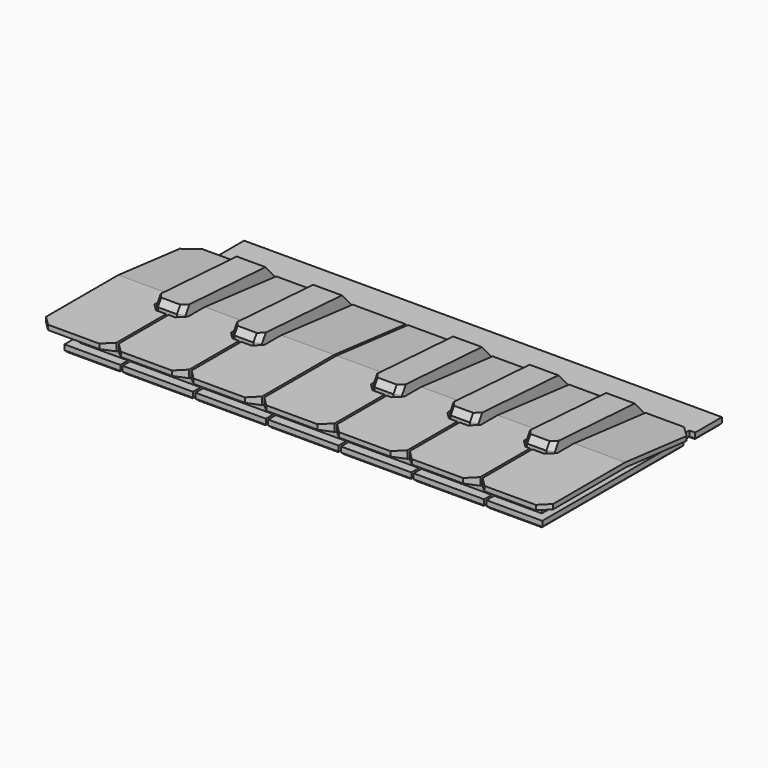
from build123d import *

# Parameters (mm, degrees)
PAD_DEPTH            = 6
POCKET_DEPTH         = 0.001
POCKET_DEPTH_BACK    = 6.001
LINEARPATTERN_COUNT  = 8
LINEARPATTERN_PITCH  = 15.228571
SKETCH002_R          = 60
POCKET001_DEPTH      = 108.051
POCKET001_DEPTH_BACK = 0.001
SKETCH003_W          = 7
SKETCH003_H          = 25
POCKET002_DEPTH      = 10.001
SKETCH004_W          = 6
SKETCH004_H          = 30.5
PAD001_DEPTH         = 8
POCKET003_DEPTH      = 108.051
POCKET003_DEPTH_BACK = 0.001
SKETCH006_W          = 10
SKETCH006_H          = 1.5
POCKET004_DEPTH      = 235.098116
POCKET004_DEPTH_BACK = 285.098116
POCKET005_DEPTH      = 0.001
POCKET005_DEPTH_BACK = 7.776184
POCKET006_DEPTH      = 5
CHAMFER_SIZE         = 2
CHAMFER001_SIZE      = 1
CHAMFER002_SIZE      = 1.5
SKETCH009_R          = 1.5
POCKET007_DEPTH      = 3.2
CHAMFER003_SIZE      = 0.4


with BuildPart() as part:
    # Sketch → Pad (new body)
    with BuildSketch(Plane.XY):
        Polygon((-50, 0), (50, 0), (50, -10), (53.3, -10), (53.3, -50), (-53.3, -50), (-53.3, -10), (-50, -10), align=None)
    extrude(amount=PAD_DEPTH)

    # Sketch001 → Pocket (cut, two sides)
    with BuildSketch(Plane.XY) as pocket_sk:
        Polygon((-53.05, -10), (-53.05, -50), (-53.55, -50), (-53.55, -10), (-57.8, -10), (-57.8, -7), (-48.8, -7), (-48.8, -10), align=None)
    pocket = extrude(amount=-POCKET_DEPTH, mode=Mode.SUBTRACT) + extrude(pocket_sk.sketch, amount=POCKET_DEPTH_BACK, mode=Mode.SUBTRACT)

    # LinearPattern: Pocket ×8
    with Locations(*[(i * LINEARPATTERN_PITCH, 0, 0) for i in range(1, LINEARPATTERN_COUNT)]):
        add(pocket, mode=Mode.SUBTRACT)

    # Sketch002 → Pocket001 (cut, two sides)
    with BuildSketch(Plane.YZ.offset(55)) as pocket001_sk:
        Circle(SKETCH002_R)
        Polygon((-29.105357, 6), (-10, 4), (-10, 1.5), (0, 1.5), (0, 0), (-47, 0), (-47, 1.5), (-45, 1.5), (-45, 3.5), (-50, 5), (-50, 6), align=None, mode=Mode.SUBTRACT)
    extrude(amount=-POCKET001_DEPTH, mode=Mode.SUBTRACT)
    extrude(pocket001_sk.sketch, amount=POCKET001_DEPTH_BACK, mode=Mode.SUBTRACT)

    # Sketch003 → Pocket002 (cut, through all)
    with BuildSketch(Plane.XY.offset(10)):
        with Locations((-38.457143, -22.5)):
            Rectangle(SKETCH003_W, SKETCH003_H)
        with Locations((-22.457143, -22.5)):
            Rectangle(SKETCH003_W, SKETCH003_H)
        with Locations((6.842857, -22.5)):
            Rectangle(SKETCH003_W, SKETCH003_H)
        with Locations((22.842857, -22.5)):
            Rectangle(SKETCH003_W, SKETCH003_H)
        with Locations((38.842857, -22.5)):
            Rectangle(SKETCH003_W, SKETCH003_H)
    extrude(amount=-POCKET002_DEPTH, mode=Mode.SUBTRACT)

    # Sketch004 → Pad001 (join)
    with BuildSketch(Plane.XY):
        with Locations((-38.457143, -19.25)):
            Rectangle(SKETCH004_W, SKETCH004_H)
        with Locations((-22.457143, -19.25)):
            Rectangle(SKETCH004_W, SKETCH004_H)
        with Locations((6.842857, -19.25)):
            Rectangle(SKETCH004_W, SKETCH004_H)
        with Locations((22.842857, -19.25)):
            Rectangle(SKETCH004_W, SKETCH004_H)
        with Locations((38.842857, -19.25)):
            Rectangle(SKETCH004_W, SKETCH004_H)
    extrude(amount=PAD001_DEPTH)

    # Sketch005 → Pocket003 (cut, two sides)
    with BuildSketch(Plane.YZ.offset(55)) as pocket003_sk:
        with BuildLine():
            Line((-34.626724, 6.161448), (-33.616386, 7.775184))
            Line((-33.616386, 7.775184), (-12.615232, 6.482727))
            Line((-12.615232, 6.482727), (-10, 3.581528))
            Line((-10, 3.581528), (-10, 1.5))
            Line((-10, 1.5), (-9, 1.5))
            ThreePointArc((-9, 1.5), (-8.5, 1), (-8, 1.5))
            Line((0, 1.5), (-8, 1.5))
            Line((0, 11.470654), (0, 1.5))
            Line((-34.626724, 11.470654), (0, 11.470654))
            Line((-34.626724, 6.161448), (-34.626724, 11.470654))
        make_face()
    extrude(amount=-POCKET003_DEPTH, mode=Mode.SUBTRACT)
    extrude(pocket003_sk.sketch, amount=POCKET003_DEPTH_BACK, mode=Mode.SUBTRACT)

    # Sketch006 → Pocket004 (cut, two sides)
    with BuildSketch(Plane.XZ) as pocket004_sk:
        with Locations((-55, 0.75)):
            Rectangle(SKETCH006_W, SKETCH006_H)
    pocket004 = extrude(amount=-POCKET004_DEPTH, mode=Mode.SUBTRACT) + extrude(pocket004_sk.sketch, amount=POCKET004_DEPTH_BACK, mode=Mode.SUBTRACT)

    # Mirrored: Pocket004 across YZ
    add(pocket004.mirror(Plane.YZ), mode=Mode.SUBTRACT)

    # Sketch007 → Pocket005 (cut, two sides)
    with BuildSketch(Plane.XY) as pocket005_sk:
        Polygon((-54.5, -9.5), (-49.5, -9.5), (-54.5, -14.5), align=None)
        Polygon((49.5, -9.5), (54.5, -14.5), (54.5, -9.5), align=None)
    extrude(amount=-POCKET005_DEPTH, mode=Mode.SUBTRACT)
    extrude(pocket005_sk.sketch, amount=POCKET005_DEPTH_BACK, mode=Mode.SUBTRACT)

    # Sketch008 → Pocket006 (cut)
    with BuildSketch(Plane.YZ.offset(53.3)):
        Polygon((-50, 5), (-28.887186, 5), (-10, 3.115991), (-10, 1.5), (-50, 1.5), align=None)
    pocket006 = extrude(amount=-POCKET006_DEPTH, mode=Mode.SUBTRACT)

    # Mirrored001: Pocket006 across YZ
    add(pocket006.mirror(Plane.YZ), mode=Mode.SUBTRACT)

    # Chamfer
    chamfer_edges = [part.edges().sort_by_distance(p)[0] for p in [
        (-37.821429, -50, 5.5),
        (-53.05, -50, 5.5),
        (-38.321429, -50, 5.5),
        (-23.092857, -50, 5.5),
        (-22.592857, -50, 5.5),
        (-7.864286, -50, 5.5),
        (-7.364286, -50, 5.5),
        (7.364286, -50, 5.5),
        (7.864286, -50, 5.5),
        (22.592857, -50, 5.5),
        (23.092857, -50, 5.5),
        (37.821429, -50, 5.5),
        (38.321429, -50, 5.5),
        (53.05, -50, 5.5),
    ]]
    chamfer(chamfer_edges, length=CHAMFER_SIZE)

    # Chamfer001
    chamfer001_edges = [part.edges().sort_by_distance(p)[0] for p in [
        (-41.457143, -34.5, 3.181927),
        (-41.457143, -34.058193, 7.069519),
        (-35.457143, -34.5, 3.181927),
        (-35.457143, -34.058193, 7.069519),
        (-25.457143, -34.5, 3.181927),
        (-25.457143, -34.058193, 7.069519),
        (-19.457143, -34.5, 3.181927),
        (-19.457143, -34.058193, 7.069519),
        (3.842857, -34.5, 3.181927),
        (3.842857, -34.058193, 7.069519),
        (9.842857, -34.5, 3.181927),
        (9.842857, -34.058193, 7.069519),
        (19.842857, -34.5, 3.181927),
        (19.842857, -34.058193, 7.069519),
        (25.842857, -34.5, 3.181927),
        (25.842857, -34.058193, 7.069519),
        (35.842857, -34.5, 3.181927),
        (35.842857, -34.058193, 7.069519),
        (41.842857, -34.5, 3.181927),
        (41.842857, -34.058193, 7.069519),
    ]]
    chamfer(chamfer001_edges, length=CHAMFER001_SIZE)

    # Chamfer002
    chamfer002_edges = [part.edges().sort_by_distance(p)[0] for p in [
        (-41.957143, -35, 3),
        (-34.957143, -35, 3),
        (-18.957143, -35, 3),
        (-25.957143, -35, 3),
        (10.342857, -35, 3),
        (26.342857, -35, 3),
        (42.342857, -35, 3),
        (35.342857, -35, 3),
        (19.342857, -35, 3),
        (3.342857, -35, 3),
    ]]
    chamfer(chamfer002_edges, length=CHAMFER002_SIZE)

    # Sketch009 → Pocket007 (cut)
    with BuildSketch(Plane(origin=(0, 0, 0), x_dir=(-1, 0, 0), z_dir=(0, 0, -1))):
        with Locations((-46.6375, -40)):
            Circle(SKETCH009_R)
        with Locations((-31.091667, -40)):
            Circle(SKETCH009_R)
        with Locations((-15.545833, -40)):
            Circle(SKETCH009_R)
        with Locations((0, -40)):
            Circle(SKETCH009_R)
        with Locations((15.545833, -40)):
            Circle(SKETCH009_R)
        with Locations((31.091667, -40)):
            Circle(SKETCH009_R)
        with Locations((46.6375, -40)):
            Circle(SKETCH009_R)
        with Locations((-38.842857, -30)):
            Circle(SKETCH009_R)
        with Locations((-22.842857, -30)):
            Circle(SKETCH009_R)
        with Locations((-6.842857, -30)):
            Circle(SKETCH009_R)
        with Locations((22.457143, -30)):
            Circle(SKETCH009_R)
        with Locations((38.457143, -30)):
            Circle(SKETCH009_R)
    extrude(amount=-POCKET007_DEPTH, mode=Mode.SUBTRACT)

    # Chamfer003
    chamfer003_edges = [part.edges().sort_by_distance(p)[0] for p in [
        (-41.957143, -21.75, 0),
        (-41.207143, -34.25, 0),
        (-42.264286, -10, 0),
        (-39.389286, -35, 0),
        (-42.571429, -8.5, 0),
        (-38.321429, -41, 0),
        (-42.014286, -7, 0),
        (-44.160714, -47, 0),
        (-41.457143, -20.25, 0),
        (-50, -28.5, 0),
        (-40.957143, -34, 0),
        (-49.4, -10, 0),
        (-38.457143, -34.5, 0),
        (-48.8, -8.5, 0),
        (-35.957143, -34, 0),
        (-49.4, -7, 0),
        (-35.457143, -20.25, 0),
        (-50, -3.5, 0),
        (-34.514286, -7, 0),
        (0, 0, 0),
        (-33.571429, -8.5, 0),
        (50, -3.5, 0),
        (-34.264286, -10, 0),
        (49.4, -7, 0),
        (-34.957143, -21.75, 0),
        (48.8, -8.5, 0),
        (-35.707143, -34.25, 0),
        (49.4, -10, 0),
        (-37.139286, -35, 0),
        (50, -28.5, 0),
        (-37.821429, -41, 0),
        (44.160714, -47, 0),
        (-30.457143, -47, 0),
        (38.321429, -41, 0),
        (-23.092857, -41, 0),
        (39.582143, -35, 0),
        (-23.775, -35, 0),
        (41.592857, -34.25, 0),
        (-25.207143, -34.25, 0),
        (42.342857, -21.75, 0),
        (-25.957143, -21.75, 0),
        (42.457143, -10, 0),
        (-26.65, -10, 0),
        (42.571429, -8.5, 0),
        (-27.342857, -8.5, 0),
        (42.207143, -7, 0),
        (-26.4, -7, 0),
        (41.842857, -20.25, 0),
        (-25.457143, -20.25, 0),
        (41.342857, -34, 0),
        (-24.957143, -34, 0),
        (38.842857, -34.5, 0),
        (-22.457143, -34.5, 0),
        (36.342857, -34, 0),
        (-19.957143, -34, 0),
        (35.842857, -20.25, 0),
        (-19.457143, -20.25, 0),
        (34.707143, -7, 0),
        (-18.9, -7, 0),
        (33.571429, -8.5, 0),
        (-18.342857, -8.5, 0),
        (34.457143, -10, 0),
        (-18.65, -10, 0),
        (35.342857, -21.75, 0),
        (-18.957143, -21.75, 0),
        (36.092857, -34.25, 0),
        (-19.707143, -34.25, 0),
        (37.332143, -35, 0),
        (-21.525, -35, 0),
        (37.821429, -41, 0),
        (-22.592857, -41, 0),
        (30.457143, -47, 0),
        (-15.228571, -47, 0),
        (23.092857, -41, 0),
        (-7.864286, -28.5, 0),
        (23.967857, -35, 0),
        (-9.989286, -10, 0),
        (25.592857, -34.25, 0),
        (-12.114286, -8.5, 0),
        (26.342857, -21.75, 0),
        (-7.614286, -7, 0),
        (26.842857, -10, 0),
        (-3.114286, -8.5, 0),
        (27.342857, -8.5, 0),
        (-5.239286, -10, 0),
        (26.592857, -7, 0),
        (-7.364286, -28.5, 0),
        (25.842857, -20.25, 0),
        (0, -47, 0),
        (25.342857, -34, 0),
        (7.364286, -41, 0),
        (22.842857, -34.5, 0),
        (6.103571, -35, 0),
        (20.342857, -34, 0),
        (4.092857, -34.25, 0),
        (19.842857, -20.25, 0),
        (3.342857, -21.75, 0),
        (19.092857, -7, 0),
        (3.228571, -10, 0),
        (18.342857, -8.5, 0),
        (3.114286, -8.5, 0),
        (18.842857, -10, 0),
        (3.478571, -7, 0),
        (19.342857, -21.75, 0),
        (3.842857, -20.25, 0),
        (20.092857, -34.25, 0),
        (4.342857, -34, 0),
        (21.717857, -35, 0),
        (6.842857, -34.5, 0),
        (22.592857, -41, 0),
        (9.342857, -34, 0),
        (15.228571, -47, 0),
        (9.842857, -20.25, 0),
        (7.864286, -41, 0),
        (10.978571, -7, 0),
        (8.353571, -35, 0),
        (12.114286, -8.5, 0),
        (9.592857, -34.25, 0),
        (11.228571, -10, 0),
        (10.342857, -21.75, 0),
        (40.342857, -30, 0),
        (24.342857, -30, 0),
        (8.342857, -30, 0),
        (48.1375, -40, 0),
        (32.591667, -40, 0),
        (17.045833, -40, 0),
        (-20.957143, -30, 0),
        (-36.957143, -30, 0),
        (1.5, -40, 0),
        (-14.045833, -40, 0),
        (-29.591667, -40, 0),
        (-45.1375, -40, 0),
    ]]
    chamfer(chamfer003_edges, length=CHAMFER003_SIZE)


solid = part.part
